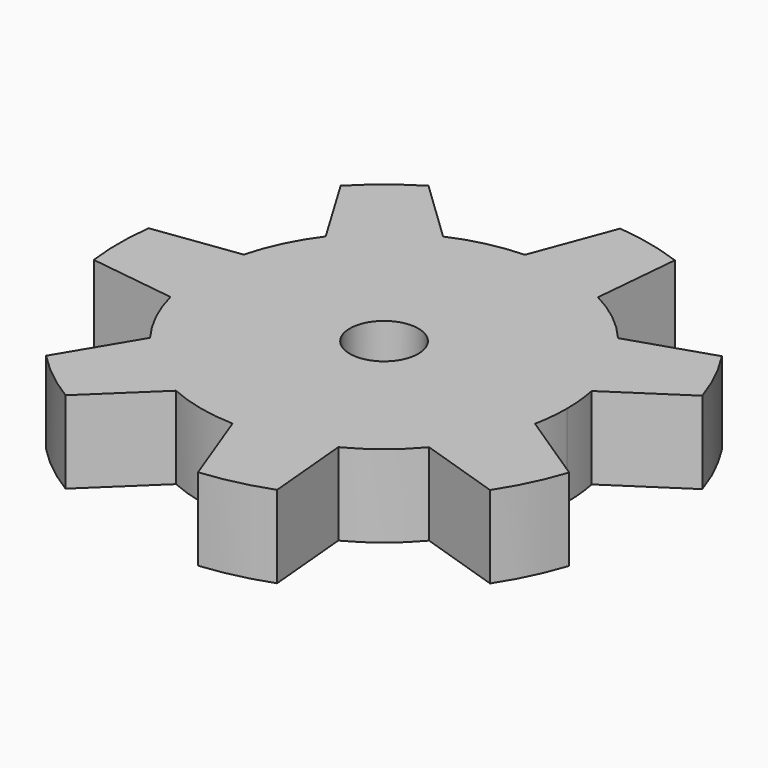
from build123d import *

# Parameters (mm, degrees)
F0_R     = 9.525
F1_DEPTH = 22.86


with BuildPart() as f1:
    # F0 (on Top) → F1 (new body)
    with BuildSketch(Plane.XY):
        with BuildLine():
            ThreePointArc((-40.622925, 30.502754), (-31.673282, 39.717039), (-20.698535, 46.391924))
            Line((-20.698535, 46.391924), (-38.093725, 63.044934))
            ThreePointArc((-38.093725, 63.044934), (-45.926259, 57.589707), (-52.987615, 51.167453))
            Line((-52.987615, 51.167453), (-40.622925, 30.502754))
        make_face()
        with BuildLine():
            Line((-18.179524, 43.980389), (-20.698535, 46.391924))
            ThreePointArc((-20.698535, 46.391924), (-31.673282, 39.717039), (-40.622925, 30.502754))
            Line((-40.622925, 30.502754), (-38.832384, 27.510282))
            Line((-38.832384, 27.510282), (-28.505954, 35.745335))
            Line((-28.505954, 35.745335), (-18.179524, 43.980389))
        make_face()
        with BuildLine():
            ThreePointArc((49.834639, -9.856405), (50.558084, -4.951784), (50.8, 0))
            ThreePointArc((50.8, 0), (50.558084, 4.951784), (49.834639, 9.856405))
            Line((49.834639, 9.856405), (46.923033, 7.937168))
            Line((46.923033, 7.937168), (41.192297, 19.837165))
            Line((41.192297, 19.837165), (35.46156, 31.737161))
            Line((35.46156, 31.737161), (38.777437, 32.816922))
            ThreePointArc((38.777437, 32.816922), (31.673282, 39.717039), (23.365342, 45.107658))
            Line((23.365342, 45.107658), (23.050505, 41.634648))
            Line((23.050505, 41.634648), (10.173657, 44.573704))
            Line((10.173657, 44.573704), (-2.703191, 47.512761))
            Line((-2.703191, 47.512761), (-1.479966, 50.778437))
            ThreePointArc((-1.479966, 50.778437), (-11.304063, 49.526338), (-20.698535, 46.391924))
            Line((-20.698535, 46.391924), (-18.179524, 43.980389))
            Line((-18.179524, 43.980389), (-28.505954, 35.745335))
            Line((-28.505954, 35.745335), (-38.832384, 27.510282))
            Line((-38.832384, 27.510282), (-40.622925, 30.502754))
            ThreePointArc((-40.622925, 30.502754), (-45.769218, 22.041294), (-49.175993, 12.742125))
            Line((-49.175993, 12.742125), (-45.72, 13.208))
            Line((-45.72, 13.208), (-45.72, 0))
            Line((-45.72, 0), (-45.72, -13.208))
            Line((-45.72, -13.208), (-49.175993, -12.742125))
            ThreePointArc((-49.175993, -12.742125), (-45.769218, -22.041294), (-40.622925, -30.502754))
            Line((-40.622925, -30.502754), (-38.832384, -27.510282))
            Line((-38.832384, -27.510282), (-28.505954, -35.745335))
            Line((-28.505954, -35.745335), (-18.179524, -43.980389))
            Line((-18.179524, -43.980389), (-20.698535, -46.391924))
            ThreePointArc((-20.698535, -46.391924), (-11.304063, -49.526338), (-1.479966, -50.778437))
            Line((-1.479966, -50.778437), (-2.703191, -47.512761))
            Line((-2.703191, -47.512761), (10.173657, -44.573704))
            Line((10.173657, -44.573704), (23.050505, -41.634648))
            Line((23.050505, -41.634648), (23.365342, -45.107658))
            ThreePointArc((23.365342, -45.107658), (31.673282, -39.717039), (38.777437, -32.816922))
            Line((38.777437, -32.816922), (35.46156, -31.737161))
            Line((35.46156, -31.737161), (41.192297, -19.837165))
            Line((41.192297, -19.837165), (46.923033, -7.937168))
            Line((46.923033, -7.937168), (49.834639, -9.856405))
        make_face()
        Circle(F0_R, mode=Mode.SUBTRACT)
        with BuildLine():
            ThreePointArc((-1.479966, 50.778437), (11.304063, 49.526338), (23.365342, 45.107658))
            Line((23.365342, 45.107658), (25.539465, 69.090747))
            ThreePointArc((25.539465, 69.090747), (16.390892, 71.81319), (6.967089, 73.329771))
            Line((6.967089, 73.329771), (-1.479966, 50.778437))
        make_face()
        with BuildLine():
            Line((46.923033, 7.937168), (49.834639, 9.856405))
            ThreePointArc((49.834639, 9.856405), (45.769218, 22.041294), (38.777437, 32.816922))
            Line((38.777437, 32.816922), (35.46156, 31.737161))
            Line((35.46156, 31.737161), (41.192297, 19.837165))
            Line((41.192297, 19.837165), (46.923033, 7.937168))
        make_face()
        with BuildLine():
            ThreePointArc((38.777437, 32.816922), (45.769218, 22.041294), (49.834639, 9.856405))
            Line((49.834639, 9.856405), (69.940917, 23.109818))
            ThreePointArc((69.940917, 23.109818), (66.365367, 31.959876), (61.675432, 40.273275))
            Line((61.675432, 40.273275), (38.777437, 32.816922))
        make_face()
        with BuildLine():
            Line((23.050505, 41.634648), (23.365342, 45.107658))
            ThreePointArc((23.365342, 45.107658), (11.304063, 49.526338), (-1.479966, 50.778437))
            Line((-1.479966, 50.778437), (-2.703191, 47.512761))
            Line((-2.703191, 47.512761), (10.173657, 44.573704))
            Line((10.173657, 44.573704), (23.050505, 41.634648))
        make_face()
        with BuildLine():
            ThreePointArc((38.777437, -32.816922), (45.769218, -22.041294), (49.834639, -9.856405))
            Line((49.834639, -9.856405), (46.923033, -7.937168))
            Line((46.923033, -7.937168), (41.192297, -19.837165))
            Line((41.192297, -19.837165), (35.46156, -31.737161))
            Line((35.46156, -31.737161), (38.777437, -32.816922))
        make_face()
        with BuildLine():
            Line((69.940917, -23.109818), (49.834639, -9.856405))
            ThreePointArc((49.834639, -9.856405), (45.769218, -22.041294), (38.777437, -32.816922))
            Line((38.777437, -32.816922), (61.675432, -40.273275))
            ThreePointArc((61.675432, -40.273275), (66.365367, -31.959876), (69.940917, -23.109818))
        make_face()
        with BuildLine():
            ThreePointArc((-1.479966, -50.778437), (11.304063, -49.526338), (23.365342, -45.107658))
            Line((23.365342, -45.107658), (23.050505, -41.634648))
            Line((23.050505, -41.634648), (10.173657, -44.573704))
            Line((10.173657, -44.573704), (-2.703191, -47.512761))
            Line((-2.703191, -47.512761), (-1.479966, -50.778437))
        make_face()
        with BuildLine():
            Line((25.539465, -69.090747), (23.365342, -45.107658))
            ThreePointArc((23.365342, -45.107658), (11.304063, -49.526338), (-1.479966, -50.778437))
            Line((-1.479966, -50.778437), (6.967089, -73.329771))
            ThreePointArc((6.967089, -73.329771), (16.390892, -71.81319), (25.539465, -69.090747))
        make_face()
        with BuildLine():
            ThreePointArc((-40.622925, -30.502754), (-31.673282, -39.717039), (-20.698535, -46.391924))
            Line((-20.698535, -46.391924), (-18.179524, -43.980389))
            Line((-18.179524, -43.980389), (-28.505954, -35.745335))
            Line((-28.505954, -35.745335), (-38.832384, -27.510282))
            Line((-38.832384, -27.510282), (-40.622925, -30.502754))
        make_face()
        with BuildLine():
            Line((-38.093725, -63.044934), (-20.698535, -46.391924))
            ThreePointArc((-20.698535, -46.391924), (-31.673282, -39.717039), (-40.622925, -30.502754))
            Line((-40.622925, -30.502754), (-52.987615, -51.167453))
            ThreePointArc((-52.987615, -51.167453), (-45.926259, -57.589707), (-38.093725, -63.044934))
        make_face()
        with BuildLine():
            Line((-45.72, 13.208), (-49.175993, 12.742125))
            ThreePointArc((-49.175993, 12.742125), (-50.8, 0), (-49.175993, -12.742125))
            Line((-49.175993, -12.742125), (-45.72, -13.208))
            Line((-45.72, -13.208), (-45.72, 0))
            Line((-45.72, 0), (-45.72, 13.208))
        make_face()
        with BuildLine():
            ThreePointArc((-49.175993, -12.742125), (-50.8, 0), (-49.175993, 12.742125))
            Line((-49.175993, 12.742125), (-73.041563, 9.525))
            ThreePointArc((-73.041563, 9.525), (-73.66, 0), (-73.041563, -9.525))
            Line((-73.041563, -9.525), (-49.175993, -12.742125))
        make_face()
    extrude(amount=F1_DEPTH)


solid = f1.part
